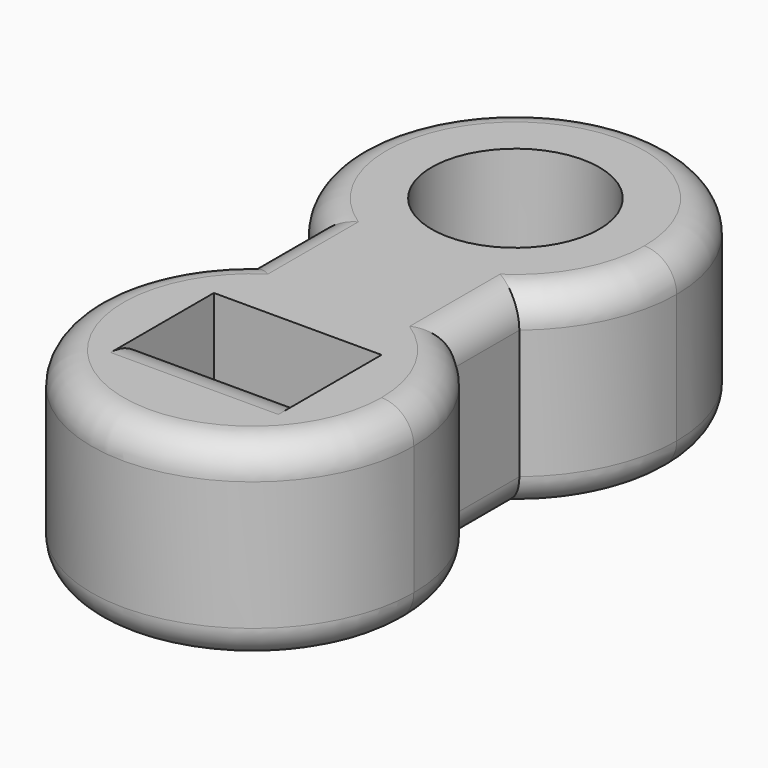
from build123d import *

# Parameters (mm, degrees)
F0_R     = 2.6
F0_W     = 5.2
F0_H     = 2.5
F1_DEPTH = 6
F2_R     = 1.5
F3_R     = 1


with BuildPart() as f1:
    # F0 (on Top) → F1 (new body)
    with BuildSketch(Plane.XY):
        with BuildLine():
            ThreePointArc((3.196213, 1.25), (4.526647, 2.971475), (5, 5.095026))
            ThreePointArc((5, 5.095026), (-2.123551, 9.621673), (-3.196213, 1.25))
            ThreePointArc((-3.196213, 1.25), (0, 0.095026), (3.196213, 1.25))
        make_face()
        with Locations((0, 5.095026)):
            Circle(F0_R, mode=Mode.SUBTRACT)
        with BuildLine():
            ThreePointArc((3.196213, 1.25), (0, 0.095026), (-3.196213, 1.25))
            Line((-3.196213, 1.25), (-3.196213, 0))
            Line((-3.196213, 0), (0, 0))
            Line((0, 0), (3.196213, 0))
            Line((3.196213, 0), (3.196213, 1.25))
        make_face()
        with BuildLine():
            Line((0, 0), (-3.196213, 0))
            Line((-3.196213, 0), (-3.196213, -1.25))
            ThreePointArc((-3.196213, -1.25), (0, -0.095026), (3.196213, -1.25))
            Line((3.196213, -1.25), (3.196213, 0))
            Line((3.196213, 0), (0, 0))
        make_face()
        with BuildLine():
            ThreePointArc((3.196213, -1.25), (0, -0.095026), (-3.196213, -1.25))
            ThreePointArc((-3.196213, -1.25), (-2.123551, -9.621673), (5, -5.095026))
            ThreePointArc((5, -5.095026), (4.526647, -2.971475), (3.196213, -1.25))
        make_face()
        with Locations((0, -4.595026)):
            Rectangle(F0_W, F0_H, mode=Mode.SUBTRACT)
    extrude(amount=F1_DEPTH)

    # F2
    f2_edges = [f1.edges().sort_by_distance(p)[0] for p in [
        (0, -5.845026, 6),
        (0, -5.845026, 0),
    ]]
    fillet(f2_edges, radius=F2_R)

    # F3
    f3_edges = [f1.edges().sort_by_distance(p)[0] for p in [
        (-3.196213, 0, 6),
        (0, 10.095026, 6),
        (3.196213, 0, 6),
        (0, -10.095026, 6),
        (0, 10.095026, 0),
        (3.196213, 0, 0),
        (-3.196213, 0, 0),
        (0, -10.095026, 0),
    ]]
    fillet(f3_edges, radius=F3_R)


solid = f1.part
